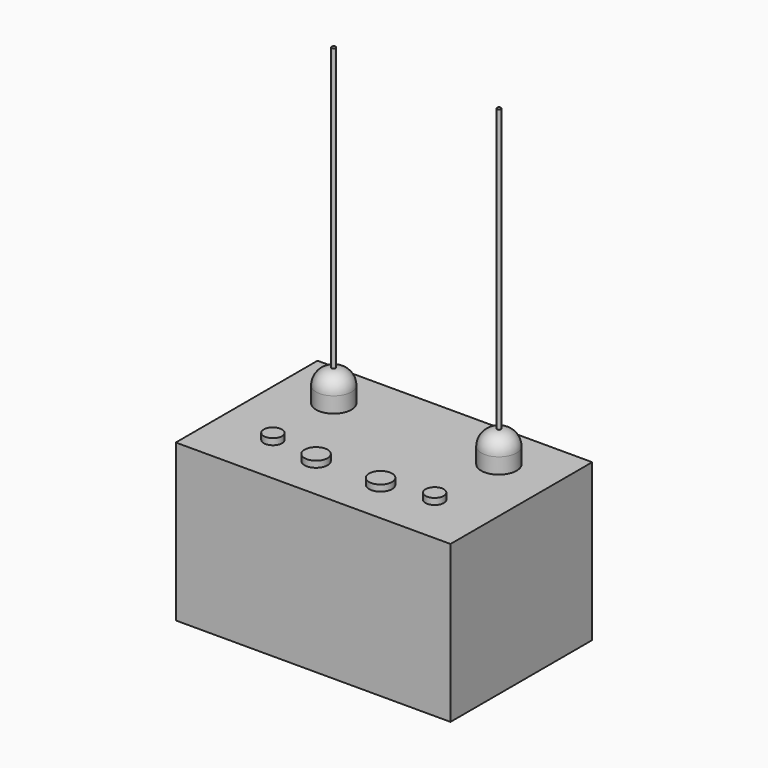
from build123d import *

# Parameters (mm, degrees)
F0_W     = 87.678052
F0_H     = 56.544334
F1_DEPTH = 50
F2_R     = 5.655174
F3_DEPTH = 10
F4_R     = 2.913078
F4_R_2   = 3.677741
F5_DEPTH = 2
F6_R     = 5
F7_R     = 0.627587
F8_DEPTH = 100


with BuildPart() as f1:
    # F0 (on Top) → F1 (new body)
    with BuildSketch(Plane.XY):
        Rectangle(F0_W, F0_H)
    extrude(amount=F1_DEPTH)


with BuildPart() as f3:
    # F2 (on face) → F3 (new body)
    with BuildSketch(Plane.XY.offset(50)):
        with Locations((-26.352344, 12.892613)):
            Circle(F2_R)
        with Locations((26.352344, 12.892613)):
            Circle(F2_R)
    extrude(amount=F3_DEPTH)

    # F6
    f6_edges = [f3.edges().sort_by_distance(p)[0] for p in [
        (20.69717, 12.892613, 60),
        (-32.007518, 12.892613, 60),
    ]]
    fillet(f6_edges, radius=F6_R)


with BuildPart() as f5:
    # F4 (on face) → F5 (new body)
    with BuildSketch(Plane.XY.offset(50)):
        with Locations((-25.813926, -12.055391)):
            Circle(F4_R)
        with Locations((-10.296327, -14.233299)):
            Circle(F4_R_2)
        with Locations((10.296327, -14.233299)):
            Circle(F4_R_2)
        with Locations((25.813926, -12.055391)):
            Circle(F4_R)
    extrude(amount=F5_DEPTH)


with BuildPart() as f8:
    # F7 (on face) → F8 (new body)
    with BuildSketch(Plane.XY.offset(50)):
        with Locations((-26.383389, 12.904418)):
            Circle(F7_R)
        with Locations((26.383389, 12.904418)):
            Circle(F7_R)
    extrude(amount=F8_DEPTH)


solid = Compound([f1.part, f3.part, f5.part, f8.part])
